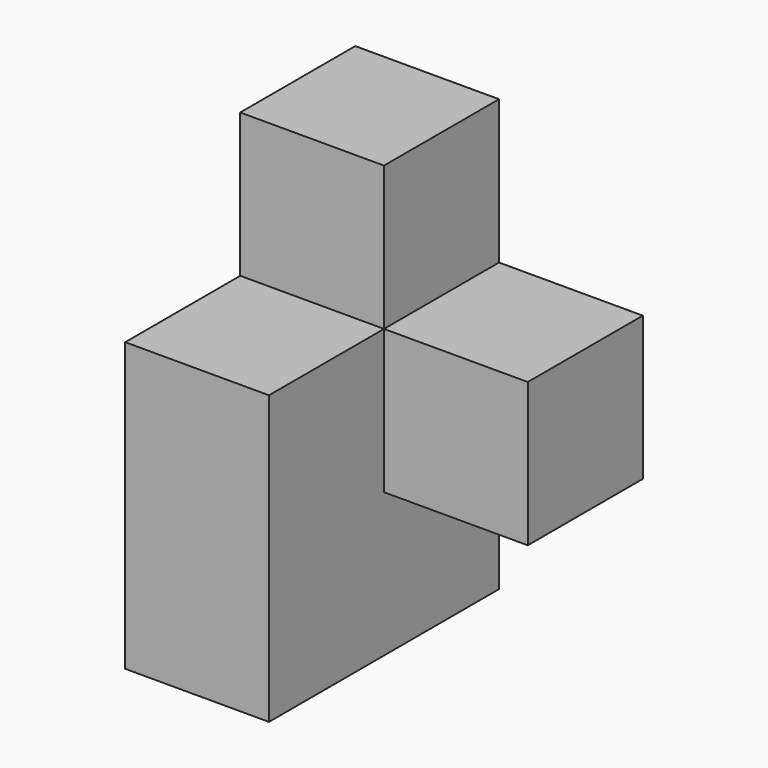
from build123d import *

# Parameters (mm, degrees)
F0_W     = 25.4
F0_H     = 25.4
F1_DEPTH = 25.4
F2_W     = 25.4
F2_H     = 25.4
F3_DEPTH = 25.4


with BuildPart() as f1:
    # F0 (on Right) → F1 (new body)
    with BuildSketch(Plane.YZ):
        with Locations((-12.7, 38.1)):
            Rectangle(F0_W, F0_H)
        with Locations((-38.1, 12.7)):
            Rectangle(F0_W, F0_H)
        with Locations((-38.1, -12.7)):
            Rectangle(F0_W, F0_H)
        with Locations((-12.7, -12.7)):
            Rectangle(F0_W, F0_H)
        with Locations((-12.7, 12.7)):
            Rectangle(F0_W, F0_H)
    extrude(amount=F1_DEPTH)

    # F2 (on face) → F3 (join)
    with BuildSketch(Plane.YZ.offset(25.4)):
        with Locations((-12.7, 12.7)):
            Rectangle(F2_W, F2_H)
    extrude(amount=F3_DEPTH)


solid = f1.part
